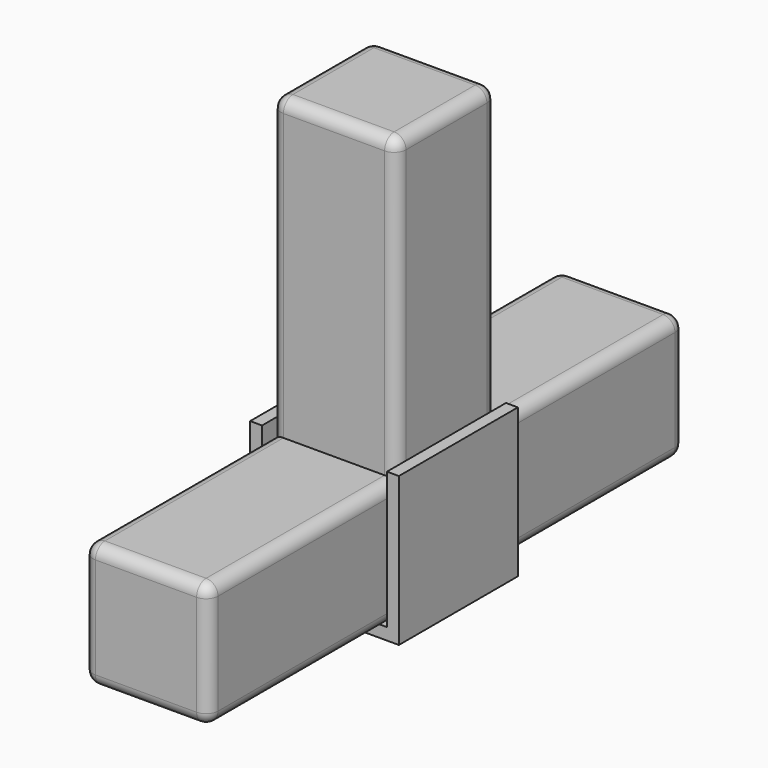
from build123d import *

# Parameters (mm, degrees)
F0_W      = 21
F0_H      = 21
F1_DEPTH  = 100
F2_W      = 21
F2_H      = 21
F3_DEPTH  = 50
F4_R      = 2
F6_DEPTH  = 2
F7_W      = 25
F7_H      = 25
F8_DEPTH  = 2
F9_W      = 25
F9_H      = 25
F10_DEPTH = 2


with BuildPart() as f1:
    # F0 (on Front) → F1 (new body)
    with BuildSketch(Plane.XZ):
        Rectangle(F0_W, F0_H)
    extrude(amount=F1_DEPTH)

    # F2 (on face) → F3 (join)
    with BuildSketch(Plane.XY.offset(10.5)):
        with Locations((0, -50)):
            Rectangle(F2_W, F2_H)
    extrude(amount=F3_DEPTH)

    # F4
    f4_edges = [f1.edges().sort_by_distance(p)[0] for p in [
        (-10.5, -19.75, 10.5),
        (-10.5, -80.25, 10.5),
        (10.5, -80.25, 10.5),
        (10.5, -19.75, 10.5),
        (10.5, -50, -10.5),
        (-10.5, -50, -10.5),
        (-10.5, -100, 0),
        (0, -100, 10.5),
        (10.5, -100, 0),
        (0, -100, -10.5),
        (10.5, 0, 0),
        (0, 0, 10.5),
        (-10.5, 0, 0),
        (0, 0, -10.5),
        (-10.5, -60.5, 35.5),
        (10.5, -60.5, 35.5),
        (0, -60.5, 60.5),
        (10.5, -50, 60.5),
        (-10.5, -50, 60.5),
        (0, -39.5, 60.5),
        (10.5, -39.5, 35.5),
        (-10.5, -39.5, 35.5),
    ]]
    fillet(f4_edges, radius=F4_R)

    # F5 (on face) → F6 (join)
    with BuildSketch(Plane(origin=(-10.5, 0, 0), x_dir=(0, -1, 0), z_dir=(-1, 0, 0))):
        Polygon((62.5, 12.5), (37.5, 12.5), (37.5, 10.5), (37.5, -12.5), (62.5, -12.5), (62.5, 10.5), align=None)
    extrude(amount=F6_DEPTH)

    # F7 (on face) → F8 (join)
    with BuildSketch(Plane.YZ.offset(10.5)):
        with Locations((-50, 0)):
            Rectangle(F7_W, F7_H)
    extrude(amount=F8_DEPTH)

    # F9 (on face) → F10 (join)
    with BuildSketch(Plane(origin=(0, 0, -10.5), x_dir=(1, 0, 0), z_dir=(0, 0, -1))):
        with Locations((0, 50)):
            Rectangle(F9_W, F9_H)
    extrude(amount=F10_DEPTH)


solid = f1.part
